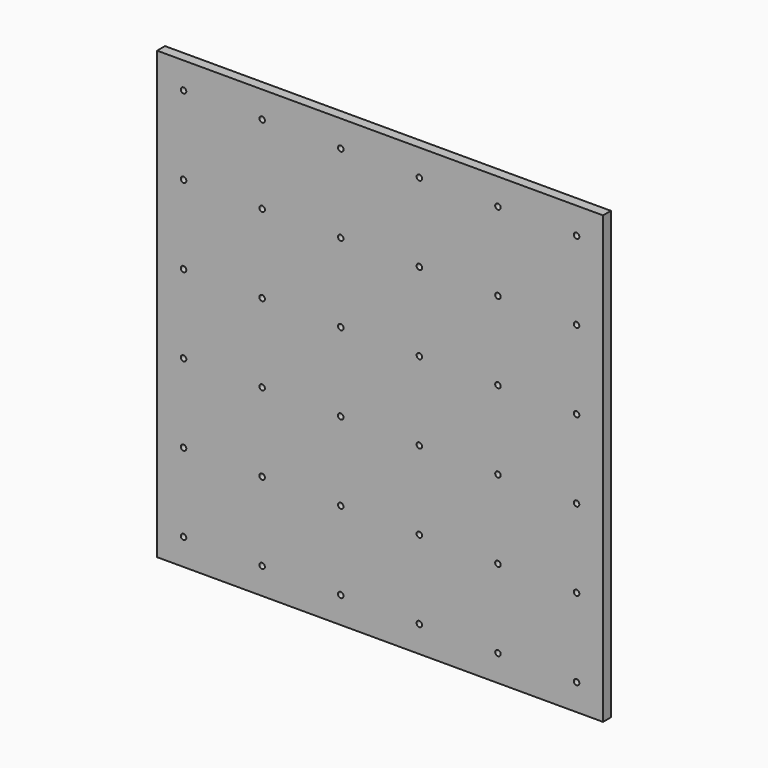
from build123d import *

# Parameters (mm, degrees)
F0_W     = 573.532
F0_H     = 573.532
F0_R     = 3.556
F1_DEPTH = 12.7


with BuildPart() as f1:
    # F0 (on Front) → F1 (new body)
    with BuildSketch(Plane.XZ):
        with Locations((116.963211, 151.638)):
            Rectangle(F0_W, F0_H)
        with Locations((-135.766789, -101.092)):
            Circle(F0_R, mode=Mode.SUBTRACT)
        with Locations((-34.674789, -101.092)):
            Circle(F0_R, mode=Mode.SUBTRACT)
        with Locations((-135.766789, 0)):
            Circle(F0_R, mode=Mode.SUBTRACT)
        with Locations((-34.674789, 0)):
            Circle(F0_R, mode=Mode.SUBTRACT)
        with Locations((66.417211, -101.092)):
            Circle(F0_R, mode=Mode.SUBTRACT)
        with Locations((66.417211, 0)):
            Circle(F0_R, mode=Mode.SUBTRACT)
        with Locations((-135.766789, 101.092)):
            Circle(F0_R, mode=Mode.SUBTRACT)
        with Locations((-34.674789, 101.092)):
            Circle(F0_R, mode=Mode.SUBTRACT)
        with Locations((66.417211, 101.092)):
            Circle(F0_R, mode=Mode.SUBTRACT)
        with Locations((167.509211, -101.092)):
            Circle(F0_R, mode=Mode.SUBTRACT)
        with Locations((167.509211, 0)):
            Circle(F0_R, mode=Mode.SUBTRACT)
        with Locations((268.601211, -101.092)):
            Circle(F0_R, mode=Mode.SUBTRACT)
        with Locations((369.693211, -101.092)):
            Circle(F0_R, mode=Mode.SUBTRACT)
        with Locations((268.601211, 0)):
            Circle(F0_R, mode=Mode.SUBTRACT)
        with Locations((369.693211, 0)):
            Circle(F0_R, mode=Mode.SUBTRACT)
        with Locations((167.509211, 101.092)):
            Circle(F0_R, mode=Mode.SUBTRACT)
        with Locations((268.601211, 101.092)):
            Circle(F0_R, mode=Mode.SUBTRACT)
        with Locations((369.693211, 101.092)):
            Circle(F0_R, mode=Mode.SUBTRACT)
        with Locations((-135.766789, 202.184)):
            Circle(F0_R, mode=Mode.SUBTRACT)
        with Locations((-34.674789, 202.184)):
            Circle(F0_R, mode=Mode.SUBTRACT)
        with Locations((66.417211, 202.184)):
            Circle(F0_R, mode=Mode.SUBTRACT)
        with Locations((-135.766789, 303.276)):
            Circle(F0_R, mode=Mode.SUBTRACT)
        with Locations((-34.674789, 303.276)):
            Circle(F0_R, mode=Mode.SUBTRACT)
        with Locations((-135.766789, 404.368)):
            Circle(F0_R, mode=Mode.SUBTRACT)
        with Locations((-34.674789, 404.368)):
            Circle(F0_R, mode=Mode.SUBTRACT)
        with Locations((66.417211, 303.276)):
            Circle(F0_R, mode=Mode.SUBTRACT)
        with Locations((66.417211, 404.368)):
            Circle(F0_R, mode=Mode.SUBTRACT)
        with Locations((167.509211, 202.184)):
            Circle(F0_R, mode=Mode.SUBTRACT)
        with Locations((268.601211, 202.184)):
            Circle(F0_R, mode=Mode.SUBTRACT)
        with Locations((369.693211, 202.184)):
            Circle(F0_R, mode=Mode.SUBTRACT)
        with Locations((167.509211, 303.276)):
            Circle(F0_R, mode=Mode.SUBTRACT)
        with Locations((167.509211, 404.368)):
            Circle(F0_R, mode=Mode.SUBTRACT)
        with Locations((268.601211, 303.276)):
            Circle(F0_R, mode=Mode.SUBTRACT)
        with Locations((369.693211, 303.276)):
            Circle(F0_R, mode=Mode.SUBTRACT)
        with Locations((268.601211, 404.368)):
            Circle(F0_R, mode=Mode.SUBTRACT)
        with Locations((369.693211, 404.368)):
            Circle(F0_R, mode=Mode.SUBTRACT)
    extrude(amount=F1_DEPTH)


solid = f1.part
